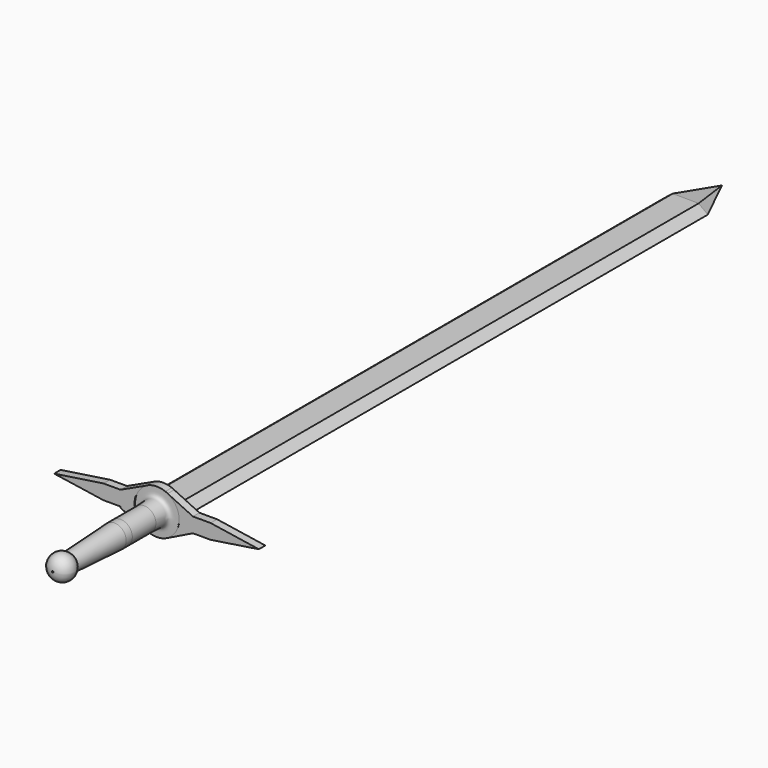
from build123d import *

# Parameters (mm, degrees)
F2_W     = 3.7265494466
F2_H     = 3.2452103915
F2_W_2   = 3.8878694177
F3_DEPTH = 1.778
F5_DEPTH = 145.034


with BuildPart() as f1:
    # F0 (on Top) → F1 (revolve)
    with BuildSketch(Plane.XY):
        with BuildLine():
            Line((-127.0902585749, -61.5358054638), (-127.0902585749, -55.0634515109))
            add(Edge.make_bspline(
                [(-129.669457674, -54.1646741331), (-128.2850205898, -54.2526878417), (-127.9523950581, -54.2903457406), (-127.0902585749, -55.0634515109)],
                knots=[0, 0, 0, 0, 2.7313126456, 2.7313126456, 2.7313126456, 2.7313126456], degree=3))
            Line((-129.669457674, -54.1646741331), (-129.635438323, -61.5358054638))
            Line((-129.635438323, -61.5358054638), (-127.0902585749, -61.5358054638))
        make_face()
        with BuildLine():
            add(Edge.make_bspline(
                [(-129.669457674, -54.1646741331), (-128.2850205898, -54.2526878417), (-127.9523950581, -54.2903457406), (-127.0902585749, -55.0634515109)],
                knots=[0, 0, 0, 0, 2.7313126456, 2.7313126456, 2.7313126456, 2.7313126456], degree=3))
            add(Edge.make_bspline(
                [(-127.0902585749, -55.0634515109), (-127.0711956695, -51.5209063888), (-127.0976996838, -51.5209063888), (-124.8294711113, -51.5209063888)],
                knots=[0, 0, 0, 0, 4.2024737832, 4.2024737832, 4.2024737832, 4.2024737832], degree=3))
            Line((-124.8294711113, -51.5209063888), (-129.669457674, -51.5209063888))
            Line((-129.669457674, -51.5209063888), (-129.669457674, -54.1646741331))
        make_face()
        Polygon((-127.0909756422, -63.2276013494), (-127.0902585749, -61.5358054638), (-129.635438323, -61.5358054638), (-129.635438323, -63.25340271), align=None)
        with BuildLine():
            Line((-127.7048313232, -75.7807434323), (-127.0909756422, -63.2276013494))
            Line((-127.0909756422, -63.2276013494), (-129.635438323, -63.25340271))
            Line((-129.635438323, -63.25340271), (-129.5152439055, -75.1066617071))
            ThreePointArc((-129.5152439055, -75.1066617071), (-128.5431259435, -75.263994789), (-127.7048313232, -75.7807434323))
        make_face()
        with BuildLine():
            ThreePointArc((-129.5152439055, -80.1606514156), (-127.0886064754, -78.5995732103), (-127.7048313232, -75.7807434323))
            ThreePointArc((-127.7048313232, -75.7807434323), (-128.5431259435, -75.263994789), (-129.5152439055, -75.1066617071))
            Line((-129.5152439055, -75.1066617071), (-129.5152439055, -80.1606514156))
        make_face()
    revolve(axis=Axis((-129.669457674, -52.8427902609, 0), (0, -1, 0)))


with BuildPart() as f3:
    # F2 (on face) → F3 (new body)
    with BuildSketch(Plane(origin=(0, -51.5209063888, 0), x_dir=(-1, 0, 0), z_dir=(0, 1, 0))):
        with Locations((139.5624317229, 0)):
            Rectangle(F2_W, F2_H)
        Polygon((152.2654891014, 0), (141.4257064462, 1.6226051957), (141.4257064462, -1.6226051957), align=None)
        with BuildLine():
            Line((137.6991569996, -1.6226051957), (137.6991569996, 1.6226051957))
            Line((137.6991569996, 1.6226051957), (134.3205327463, 1.6226051957))
            ThreePointArc((134.3205327463, 1.6226051957), (134.6124994318, 0.0026180172), (134.3512476145, -1.6226051957))
            Line((134.3512476145, -1.6226051957), (137.6991569996, -1.6226051957))
        make_face()
        with BuildLine():
            Line((134.3205327463, 1.6226051957), (137.6991569996, 1.6226051957))
            Line((137.6991569996, 1.6226051957), (132.1454062558, 4.2083863288))
            ThreePointArc((132.1454062558, 4.2083863288), (133.4630258653, 3.1090162755), (134.3205327463, 1.6226051957))
        make_face()
        with BuildLine():
            Line((125.1095648786, 1.6226051957), (134.3205327463, 1.6226051957))
            ThreePointArc((134.3205327463, 1.6226051957), (133.4630258653, 3.1090162755), (132.1454062558, 4.2083863288))
            ThreePointArc((132.1454062558, 4.2083863288), (130.034461551, 4.8435084859), (127.8588082619, 4.4885430413))
            Line((127.8588082619, 4.4885430413), (127.3474626864, 4.2466232709))
            ThreePointArc((127.3474626864, 4.2466232709), (125.9868685604, 3.1407017286), (125.1095648786, 1.6226051957))
        make_face()
        with BuildLine():
            Line((137.6991569996, -1.9126803963), (137.6991569996, -1.6226051957))
            Line((137.6991569996, -1.6226051957), (134.3512476145, -1.6226051957))
            ThreePointArc((134.3512476145, -1.6226051957), (133.6309256802, -2.9853464903), (132.5227364323, -4.0567213621))
            Line((132.5227364323, -4.0567213621), (137.6991569996, -1.9126803963))
        make_face()
        with BuildLine():
            ThreePointArc((125.0788500104, -1.6226051957), (124.8175981931, 0.0026180172), (125.1095648786, 1.6226051957))
            Line((125.1095648786, 1.6226051957), (121.8010783195, 1.6226051957))
            Line((121.8010783195, 1.6226051957), (121.8010783195, -1.6226051957))
            Line((121.8010783195, -1.6226051957), (125.0788500104, -1.6226051957))
        make_face()
        with BuildLine():
            Line((121.8010783195, 1.6226051957), (125.1095648786, 1.6226051957))
            ThreePointArc((125.1095648786, 1.6226051957), (125.9868685604, 3.1407017286), (127.3474626864, 4.2466232709))
            Line((127.3474626864, 4.2466232709), (121.8010783195, 1.6226051957))
        make_face()
        with BuildLine():
            ThreePointArc((132.5227364323, -4.0567213621), (133.6309256802, -2.9853464903), (134.3512476145, -1.6226051957))
            Line((134.3512476145, -1.6226051957), (125.0788500104, -1.6226051957))
            ThreePointArc((125.0788500104, -1.6226051957), (126.0390793221, -3.2801555498), (127.5616517136, -4.442604181))
            ThreePointArc((127.5616517136, -4.442604181), (130.0948519311, -4.9266561038), (132.5227364323, -4.0567213621))
        make_face()
        with BuildLine():
            Line((127.3474626864, 4.2466232709), (127.8588082619, 4.4885430413))
            ThreePointArc((127.8588082619, 4.4885430413), (127.5995980828, 4.3750601367), (127.3474626864, 4.2466232709))
        make_face()
        with Locations((119.8571436107, 0)):
            Rectangle(F2_W_2, F2_H)
        with BuildLine():
            ThreePointArc((127.5616517136, -4.442604181), (126.0390793221, -3.2801555498), (125.0788500104, -1.6226051957))
            Line((125.0788500104, -1.6226051957), (121.8010783195, -1.6226051957))
            Line((121.8010783195, -1.6226051957), (127.5616517136, -4.442604181))
        make_face()
        Polygon((117.9132089019, -1.6226051957), (117.9132089019, 1.6226051957), (107.3257997632, 0), align=None)
    extrude(amount=F3_DEPTH)


with BuildPart() as f5:
    # F4 (on face) → F5 (new body)
    with BuildSketch(Plane(origin=(0, -51.5209063888, 0), x_dir=(-1, 0, 0), z_dir=(0, 1, 0))):
        Polygon((126.8343776464, 1.5322518302), (124.8294711113, 0), (126.8343776464, -1.5685113613), (132.5649023056, -1.5685113613), (134.5094442368, 0), (132.525652647, 1.5715019545), align=None)
    extrude(amount=F5_DEPTH)

    # F5_face (on face) → F9 section 0
    with BuildSketch(Plane(origin=(-129.6889331914, 93.5130936112, -0.00891164), x_dir=(-1, 0, 0), z_dir=(0, 1, 0)), mode=Mode.PRIVATE) as f9_s0:
        Polygon((-2.8545555449, 1.5411634702), (-4.8594620801, 0.00891164), (-2.8545555449, -1.5595997212), (2.8759691142, -1.5595997212), (4.8205110454, 0.00891164), (2.8367194556, 1.5804135945), align=None)
    loft([f9_s0.sketch, Vertex(-129.7173500061, 103.5130936112, 0)])


solid = Compound([f1.part, f3.part, f5.part])
